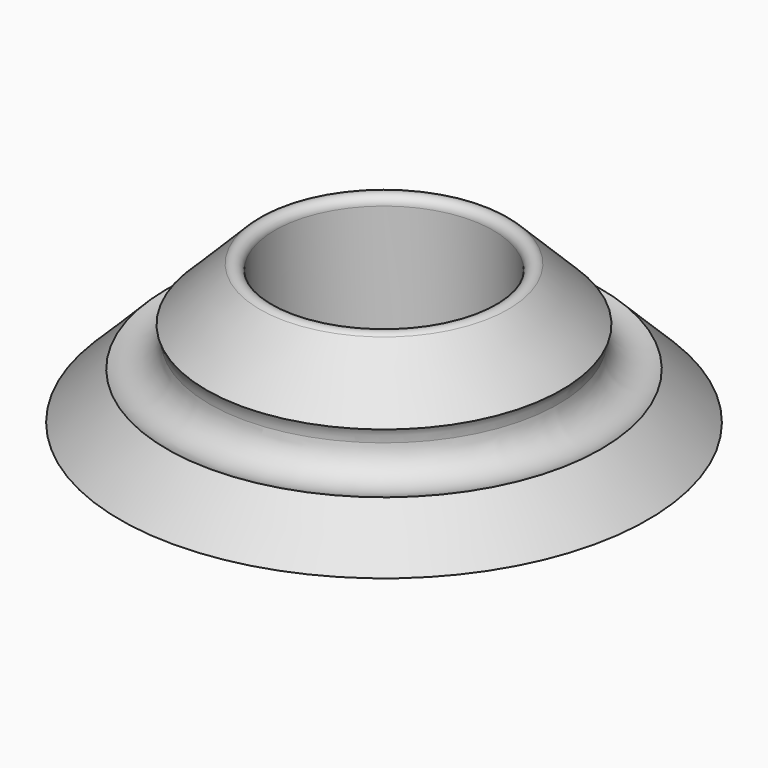
from build123d import *

# Parameters (mm, degrees)
F2_R = 10


with BuildPart() as f1:
    # F0 (on Right) → F1 (revolve)
    with BuildSketch(Plane.YZ):
        with BuildLine():
            Line((-90.827465, 0), (-37.59887, 0))
            Line((-37.59887, 0), (-37.59887, 45.985954))
            ThreePointArc((-37.59887, 45.985954), (-39.45082, 48.757593), (-42.72019, 48.107275))
            Line((-42.72019, 48.107275), (-90.827465, 0))
        make_face()
    revolve(axis=Axis((0, 0, 38.720641), (0, 0, 1)))

    # F2 (on Right) → F3 (revolve, cut)
    with BuildSketch(Plane.YZ):
        with Locations((-70, 25)):
            Circle(F2_R)
    revolve(axis=Axis((0, 0, 29.182823), (0, 0, 1)), mode=Mode.SUBTRACT)


solid = f1.part
